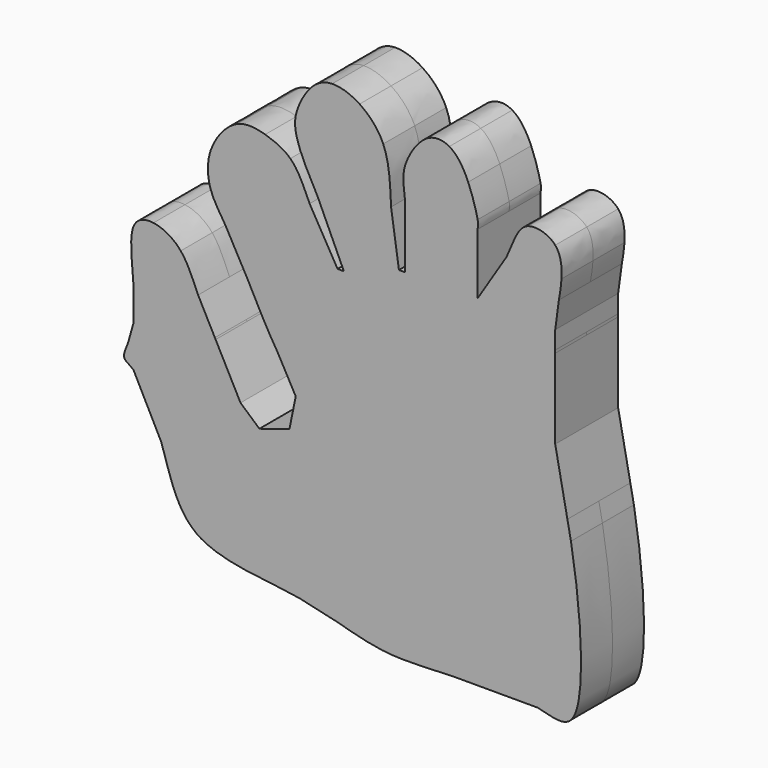
from build123d import *

# Parameters (mm, degrees)
F1_DEPTH = 12.5


with BuildPart() as f1:
    # F0 (on Front) → F1 (new body, symmetric)
    with BuildSketch(Plane.XZ):
        Polygon((-5.1935133524, -48.3025573194), (-6.5935280512, -64.8396732739), (15.7875418663, -64.8396732739), (15.7875418663, -48.3025573194), align=None)
        with BuildLine():
            add(Edge.make_bspline(
                [(-6.5935280512, -64.8396732739), (-11.4050365055, -64.2186312655), (-16.1045608147, -62.8679445056), (-21.1729632336, -61.5103819503)],
                knots=[0.8510220644, 0.8510220644, 0.8510220644, 0.8510220644, 0.8655909501, 0.8655909501, 0.8655909501, 0.8655909501], degree=3))
            Line((-6.5935280512, -64.8396732739), (-21.1729632336, -61.5103819503))
        make_face()
        with BuildLine():
            Line((-21.1729632336, -61.5103819503), (-6.5935280512, -64.8396732739))
            Line((-6.5935280512, -64.8396732739), (-5.1935133524, -48.3025573194))
            Line((-5.1935133524, -48.3025573194), (-26.9469034553, -40.9064049648))
            Line((-26.9469034553, -40.9064049648), (-32.8958564252, -58.8333971356))
            add(Edge.make_bspline(
                [(-21.1729632336, -61.5103819503), (-24.828562124, -60.5312363023), (-28.676053416, -59.5485138281), (-32.8958564252, -58.8333971356)],
                knots=[0.8655909501, 0.8655909501, 0.8655909501, 0.8655909501, 0.8760987981, 0.8760987981, 0.8760987981, 0.8760987981], degree=3))
        make_face()
        with BuildLine():
            Line((15.7875418663, -64.8396732739), (-6.5935280512, -64.8396732739))
            add(Edge.make_bspline(
                [(15.7875418663, -64.8396732739), (8.7679124805, -64.9936300958), (0.9495776428, -65.81329424), (-6.5935280512, -64.8396732739)],
                knots=[0.8281821076, 0.8281821076, 0.8281821076, 0.8281821076, 0.8510220644, 0.8510220644, 0.8510220644, 0.8510220644], degree=3))
        make_face()
        with BuildLine():
            add(Edge.make_bspline(
                [(22.2482619205, -64.8396732739), (20.1812591882, -64.8091614413), (18.0249726281, -64.7906012061), (15.7875418663, -64.8396732739)],
                knots=[0.8209021191, 0.8209021191, 0.8209021191, 0.8209021191, 0.8281821076, 0.8281821076, 0.8281821076, 0.8281821076], degree=3))
            Line((15.7875418663, -64.8396732739), (22.2482619205, -64.8396732739))
        make_face()
        with BuildLine():
            Line((15.7875418663, -48.3025573194), (15.7875418663, -64.8396732739))
            add(Edge.make_bspline(
                [(22.2482619205, -64.8396732739), (20.1812591882, -64.8091614413), (18.0249726281, -64.7906012061), (15.7875418663, -64.8396732739)],
                knots=[0.8209021191, 0.8209021191, 0.8209021191, 0.8209021191, 0.8281821076, 0.8281821076, 0.8281821076, 0.8281821076], degree=3))
            Line((22.2482619205, -64.8396732739), (31.6822826862, -64.8396732739))
            Line((31.6822826862, -64.8396732739), (31.6822826862, -48.3025573194))
            Line((31.6822826862, -48.3025573194), (15.7875418663, -48.3025573194))
        make_face()
        with BuildLine():
            Line((-32.8958564252, -58.8333971356), (-21.1729632336, -61.5103819503))
            add(Edge.make_bspline(
                [(-21.1729632336, -61.5103819503), (-24.828562124, -60.5312363023), (-28.676053416, -59.5485138281), (-32.8958564252, -58.8333971356)],
                knots=[0.8655909501, 0.8655909501, 0.8655909501, 0.8655909501, 0.8760987981, 0.8760987981, 0.8760987981, 0.8760987981], degree=3))
        make_face()
        with BuildLine():
            Line((31.6822826862, -64.8396732739), (22.2482619205, -64.8396732739))
            add(Edge.make_bspline(
                [(31.6822826862, -64.8396732739), (28.8030091837, -64.9722917368), (25.6462814157, -64.8898327634), (22.2482619205, -64.8396732739)],
                knots=[0.8089342862, 0.8089342862, 0.8089342862, 0.8089342862, 0.8209021191, 0.8209021191, 0.8209021191, 0.8209021191], degree=3))
        make_face()
        with BuildLine():
            add(Edge.make_bspline(
                [(-32.8958564252, -58.8333971356), (-44.1164137072, -56.9318847202), (-57.9693668764, -56.9224544676), (-65.5489493573, -51.3768902389)],
                knots=[0.8760987981, 0.8760987981, 0.8760987981, 0.8760987981, 0.9040394178, 0.9040394178, 0.9040394178, 0.9040394178], degree=3))
            Line((-32.8958564252, -58.8333971356), (-65.5489493573, -51.3768902389))
        make_face()
        Polygon((-65.5489493573, -51.3768902389), (-32.8958564252, -58.8333971356), (-26.9469034553, -40.9064049648), (-44.9303537607, -34.7920320928), align=None)
        with BuildLine():
            Line((-44.9303537607, -34.7920320928), (-26.9469034553, -40.9064049648))
            Line((-26.9469034553, -40.9064049648), (-22.3575511996, -14.3079243898))
            Line((-22.3575511996, -14.3079243898), (-36.0247479849, -12.5796046703))
            add(Edge.make_bspline(
                [(-45.5641399991, -15.5796046703), (-42.6125678635, -16.1868752323), (-38.3733848259, -15.0952570458), (-36.0247479849, -12.5796046703)],
                knots=[0.0950415408, 0.0950415408, 0.0950415408, 0.0950415408, 0.1103085811, 0.1103085811, 0.1103085811, 0.1103085811], degree=3))
            Line((-45.5641399991, -15.5796046703), (-44.9303537607, -34.7920320928))
        make_face()
        with BuildLine():
            add(Edge.make_bspline(
                [(42.8085923195, -64.8396732739), (38.9285973622, -64.0933455842), (35.5566235974, -64.6612223085), (31.6822826862, -64.8396732739)],
                knots=[0.79283041, 0.79283041, 0.79283041, 0.79283041, 0.8089342862, 0.8089342862, 0.8089342862, 0.8089342862], degree=3))
            Line((31.6822826862, -64.8396732739), (42.8085923195, -64.8396732739))
        make_face()
        with BuildLine():
            Line((31.6822826862, -48.3025573194), (31.6822826862, -64.8396732739))
            add(Edge.make_bspline(
                [(42.8085923195, -64.8396732739), (38.9285973622, -64.0933455842), (35.5566235974, -64.6612223085), (31.6822826862, -64.8396732739)],
                knots=[0.79283041, 0.79283041, 0.79283041, 0.79283041, 0.8089342862, 0.8089342862, 0.8089342862, 0.8089342862], degree=3))
            Line((42.8085923195, -64.8396732739), (42.8085923195, -48.3025573194))
            Line((42.8085923195, -48.3025573194), (31.6822826862, -48.3025573194))
        make_face()
        with BuildLine():
            add(Edge.make_bspline(
                [(-65.5489493573, -51.3768902389), (-72.0523895161, -46.6186802452), (-73.9373750548, -37.7847691955), (-76.7571373777, -29.4134169658)],
                knots=[0.9040394178, 0.9040394178, 0.9040394178, 0.9040394178, 0.9280130534, 0.9280130534, 0.9280130534, 0.9280130534], degree=3))
            Line((-65.5489493573, -51.3768902389), (-76.7571373777, -29.4134169658))
        make_face()
        Polygon((-76.7571373777, -29.4134169658), (-65.5489493573, -51.3768902389), (-44.9303537607, -34.7920320928), (-62.4145641923, -20.1688762754), align=None)
        with BuildLine():
            Line((-62.4145641923, -20.1688762754), (-44.9303537607, -34.7920320928))
            Line((-44.9303537607, -34.7920320928), (-45.5641399991, -15.5796046703))
            add(Edge.make_bspline(
                [(-51.5641399991, -10.2881020482), (-49.813984026, -13.1341750659), (-48.2041063734, -15.0364453674), (-45.5641399991, -15.5796046703)],
                knots=[0.0813862847, 0.0813862847, 0.0813862847, 0.0813862847, 0.0950415408, 0.0950415408, 0.0950415408, 0.0950415408], degree=3))
            Line((-51.5641399991, -10.2881020482), (-62.4145641923, -20.1688762754))
        make_face()
        with BuildLine():
            Line((-36.0247479849, -12.5796046703), (-22.3575511996, -14.3079243898))
            Line((-22.3575511996, -14.3079243898), (-21.612960114, 9.389372386))
            Line((-21.612960114, 9.389372386), (-39.8195015407, 7.7478907339))
            add(Edge.make_bspline(
                [(-34.0247479849, -2.7816456992), (-34.9091637398, 0.8828703507), (-37.3137325461, 3.8297871731), (-39.8195015407, 7.7478907339)],
                knots=[0.1255756215, 0.1255756215, 0.1255756215, 0.1255756215, 0.1423128857, 0.1423128857, 0.1423128857, 0.1423128857], degree=3))
            add(Edge.make_bspline(
                [(-36.0247479849, -12.5796046703), (-33.6761111439, -10.0639522948), (-33.2180204995, -6.1242657302), (-34.0247479849, -2.7816456992)],
                knots=[0.1103085811, 0.1103085811, 0.1103085811, 0.1103085811, 0.1255756215, 0.1255756215, 0.1255756215, 0.1255756215], degree=3))
        make_face()
        with BuildLine():
            Line((-21.612960114, 9.389372386), (-13.4903537243, 9.389372386))
            Line((-13.4903537243, 9.389372386), (-18.7393362841, 37.1932550406))
            add(Edge.make_bspline(
                [(-20.7393362841, 37.1932550406), (-19.8140247187, 36.5347507636), (-18.9764805354, 36.5181059132), (-18.7393362841, 37.1932550406)],
                knots=[0.2968141887, 0.2968141887, 0.2968141887, 0.2968141887, 0.3036418167, 0.3036418167, 0.3036418167, 0.3036418167], degree=3))
            Line((-20.7393362841, 37.1932550406), (-21.612960114, 9.389372386))
        make_face()
        Polygon((-18.7393362841, 37.1932550406), (-13.4903537243, 9.389372386), (4.9209466925, 10.6750283704), (-0.0967886949, 37.1932550406), (-9.369668142, 37.1932550406), align=None)
        Polygon((42.8085923195, -48.3025573194), (42.8085923195, -64.8396732739), (53.4064719488, -64.8396732739), (53.4064719488, -14.8396732739), (37.5633239745, -15.0825604797), align=None)
        with BuildLine():
            Line((53.4064719488, -64.8396732739), (42.8085923195, -64.8396732739))
            add(Edge.make_bspline(
                [(53.4064719488, -64.8396732739), (50.8659586136, -67.5482395357), (46.5953287823, -65.568062436), (42.8085923195, -64.8396732739)],
                knots=[0.777113602, 0.777113602, 0.777113602, 0.777113602, 0.79283041, 0.79283041, 0.79283041, 0.79283041], degree=3))
        make_face()
        with BuildLine():
            add(Edge.make_bspline(
                [(-76.7571373777, -29.4134169658), (-79.2545137314, -21.999168986), (-82.4851381101, -14.9477566554), (-85.5489493573, -12.1850543543)],
                knots=[0.9280130534, 0.9280130534, 0.9280130534, 0.9280130534, 0.9492457616, 0.9492457616, 0.9492457616, 0.9492457616], degree=3))
            Line((-76.7571373777, -29.4134169658), (-62.4145641923, -20.1688762754))
            Line((-62.4145641923, -20.1688762754), (-70.9977224469, -3.6383499391))
            Line((-70.9977224469, -3.6383499391), (-85.5489493573, -12.1850543543))
        make_face()
        with BuildLine():
            Line((-85.5489493573, -12.1850543543), (-76.7571373777, -29.4134169658))
            add(Edge.make_bspline(
                [(-76.7571373777, -29.4134169658), (-79.2545137314, -21.999168986), (-82.4851381101, -14.9477566554), (-85.5489493573, -12.1850543543)],
                knots=[0.9280130534, 0.9280130534, 0.9280130534, 0.9280130534, 0.9492457616, 0.9492457616, 0.9492457616, 0.9492457616], degree=3))
        make_face()
        with BuildLine():
            add(Edge.make_bspline(
                [(-51.5641399991, -10.2881020482), (-49.813984026, -13.1341750659), (-48.2041063734, -15.0364453674), (-45.5641399991, -15.5796046703)],
                knots=[0.0813862847, 0.0813862847, 0.0813862847, 0.0813862847, 0.0950415408, 0.0950415408, 0.0950415408, 0.0950415408], degree=3))
            Line((-45.5641399991, -15.5796046703), (-51.5641399991, -10.2881020482))
        make_face()
        with BuildLine():
            Line((-36.0247479849, -12.5796046703), (-45.5641399991, -15.5796046703))
            add(Edge.make_bspline(
                [(-45.5641399991, -15.5796046703), (-42.6125678635, -16.1868752323), (-38.3733848259, -15.0952570458), (-36.0247479849, -12.5796046703)],
                knots=[0.0950415408, 0.0950415408, 0.0950415408, 0.0950415408, 0.1103085811, 0.1103085811, 0.1103085811, 0.1103085811], degree=3))
        make_face()
        Polygon((-70.9977224469, -3.6383499391), (-62.4145641923, -20.1688762754), (-51.5641399991, -10.2881020482), align=None)
        with BuildLine():
            Line((-34.0247479849, -2.7816456992), (-36.0247479849, -12.5796046703))
            add(Edge.make_bspline(
                [(-36.0247479849, -12.5796046703), (-33.6761111439, -10.0639522948), (-33.2180204995, -6.1242657302), (-34.0247479849, -2.7816456992)],
                knots=[0.1103085811, 0.1103085811, 0.1103085811, 0.1103085811, 0.1255756215, 0.1255756215, 0.1255756215, 0.1255756215], degree=3))
        make_face()
        Polygon((-39.8195015407, 7.7478907339), (-21.612960114, 9.389372386), (-20.7393362841, 37.1932550406), (-49.3983829512, 25.1534938937), align=None)
        with BuildLine():
            add(Edge.make_bspline(
                [(-20.7393362841, 37.1932550406), (-19.8140247187, 36.5347507636), (-18.9764805354, 36.5181059132), (-18.7393362841, 37.1932550406)],
                knots=[0.2968141887, 0.2968141887, 0.2968141887, 0.2968141887, 0.3036418167, 0.3036418167, 0.3036418167, 0.3036418167], degree=3))
            Line((-18.7393362841, 37.1932550406), (-20.7393362841, 37.1932550406))
        make_face()
        with BuildLine():
            add(Edge.make_bspline(
                [(-18.7393362841, 37.1932550406), (-17.9899796566, 39.3266716016), (-23.2356692695, 48.3677120049), (-27.0602430678, 55.3473303678)],
                knots=[0.3036418167, 0.3036418167, 0.3036418167, 0.3036418167, 0.3252165683, 0.3252165683, 0.3252165683, 0.3252165683], degree=3))
            Line((-18.7393362841, 37.1932550406), (-9.369668142, 37.1932550406))
            Line((-9.369668142, 37.1932550406), (-15.5560321957, 58.7479010111))
            Line((-15.5560321957, 58.7479010111), (-27.0602430678, 55.3473303678))
        make_face()
        with BuildLine():
            Line((-27.0602430678, 55.3473303678), (-18.7393362841, 37.1932550406))
            add(Edge.make_bspline(
                [(-18.7393362841, 37.1932550406), (-17.9899796566, 39.3266716016), (-23.2356692695, 48.3677120049), (-27.0602430678, 55.3473303678)],
                knots=[0.3036418167, 0.3036418167, 0.3036418167, 0.3036418167, 0.3252165683, 0.3252165683, 0.3252165683, 0.3252165683], degree=3))
        make_face()
        with BuildLine():
            Line((53.4064719488, -14.8396732739), (53.4064719488, -64.8396732739))
            add(Edge.make_bspline(
                [(53.4064719488, -14.8396732739), (56.2803009226, -30.9520973766), (58.9246662683, -58.9564548107), (53.4064719488, -64.8396732739)],
                knots=[0.7429754619, 0.7429754619, 0.7429754619, 0.7429754619, 0.777113602, 0.777113602, 0.777113602, 0.777113602], degree=3))
        make_face()
        with BuildLine():
            Line((31.4882327851, 10.6750283704), (37.5633239745, -15.0825604797))
            Line((37.5633239745, -15.0825604797), (53.4064719488, -14.8396732739))
            Line((53.4064719488, -14.8396732739), (52.2753390922, -9.0675698026))
            add(Edge.make_bspline(
                [(48.4064719488, 10.6750283704), (49.0088313806, 3.7503301896), (50.5862752832, -1.1475419331), (52.2753390922, -9.0675698026)],
                knots=[0.7183580989, 0.7183580989, 0.7183580989, 0.7183580989, 0.7385059612, 0.7385059612, 0.7385059612, 0.7385059612], degree=3))
            Line((48.4064719488, 10.6750283704), (31.4882327851, 10.6750283704))
        make_face()
        with BuildLine():
            Line((-9.369668142, 37.1932550406), (-0.0967886949, 37.1932550406))
            Line((-0.0967886949, 37.1932550406), (-1.2393362841, 43.2315040936))
            add(Edge.make_bspline(
                [(-3.7393362841, 60.0466758144), (-3.4402741137, 53.2980468561), (-3.0991006227, 45.368869769), (-1.2393362841, 43.2315040936)],
                knots=[0.4361504812, 0.4361504812, 0.4361504812, 0.4361504812, 0.4560562665, 0.4560562665, 0.4560562665, 0.4560562665], degree=3))
            Line((-3.7393362841, 60.0466758144), (-4.0518213236, 62.1484716544))
            Line((-4.0518213236, 62.1484716544), (-15.5560321957, 58.7479010111))
            Line((-15.5560321957, 58.7479010111), (-9.369668142, 37.1932550406))
        make_face()
        with BuildLine():
            Line((-1.2393362841, 43.2315040936), (-0.0967886949, 37.1932550406))
            Line((-0.0967886949, 37.1932550406), (0, 37.1932550406))
            Line((0, 37.1932550406), (2.762519131, 38.3189834054))
            Line((2.762519131, 38.3189834054), (0.7606637159, 43.2315040936))
            add(Edge.make_bspline(
                [(-1.2393362841, 43.2315040936), (-0.6014423785, 42.4983937151), (0.2151092738, 42.4466729145), (0.7606637159, 43.2315040936)],
                knots=[0.4560562665, 0.4560562665, 0.4560562665, 0.4560562665, 0.4628838946, 0.4628838946, 0.4628838946, 0.4628838946], degree=3))
        make_face()
        with BuildLine():
            add(Edge.make_bspline(
                [(-85.5489493573, -12.1850543543), (-85.5953286036, -12.1432332237), (-85.6416696243, -12.1023948589), (-85.6879327177, -12.0624825517)],
                knots=[0.9492457616, 0.9492457616, 0.9492457616, 0.9492457616, 0.9495671772, 0.9495671772, 0.9495671772, 0.9495671772], degree=3))
            Line((-85.5489493573, -12.1850543543), (-70.9977224469, -3.6383499391))
            Line((-70.9977224469, -3.6383499391), (-74.5548907039, 2.4179215722))
            Line((-74.5548907039, 2.4179215722), (-79.4219300151, -2.2078235633))
            Line((-79.4219300151, -2.2078235633), (-88.5489493573, -9.5393030433))
            Line((-88.5489493573, -9.5393030433), (-85.6879327177, -12.0624825517))
        make_face()
        with BuildLine():
            Line((-85.6879327177, -12.0624825517), (-85.5489493573, -12.1850543543))
            add(Edge.make_bspline(
                [(-85.5489493573, -12.1850543543), (-85.5953286036, -12.1432332237), (-85.6416696243, -12.1023948589), (-85.6879327177, -12.0624825517)],
                knots=[0.9492457616, 0.9492457616, 0.9492457616, 0.9492457616, 0.9495671772, 0.9495671772, 0.9495671772, 0.9495671772], degree=3))
        make_face()
        with BuildLine():
            add(Edge.make_bspline(
                [(-59.4760133754, 4.8409839914), (-56.9769911398, 0.04154118), (-54.1208799224, -6.1303763251), (-51.5641399991, -10.2881020482)],
                knots=[0.0614378122, 0.0614378122, 0.0614378122, 0.0614378122, 0.0813862847, 0.0813862847, 0.0813862847, 0.0813862847], degree=3))
            Line((-51.5641399991, -10.2881020482), (-59.4760133754, 4.8409839914))
        make_face()
        with BuildLine():
            Line((-70.9977224469, -3.6383499391), (-51.5641399991, -10.2881020482))
            add(Edge.make_bspline(
                [(-59.4760133754, 4.8409839914), (-56.9769911398, 0.04154118), (-54.1208799224, -6.1303763251), (-51.5641399991, -10.2881020482)],
                knots=[0.0614378122, 0.0614378122, 0.0614378122, 0.0614378122, 0.0813862847, 0.0813862847, 0.0813862847, 0.0813862847], degree=3))
            Line((-59.4760133754, 4.8409839914), (-70.9977224469, -3.6383499391))
        make_face()
        with BuildLine():
            Line((-74.5548907039, 2.4179215722), (-70.9977224469, -3.6383499391))
            Line((-70.9977224469, -3.6383499391), (-59.4760133754, 4.8409839914))
            Line((-59.4760133754, 4.8409839914), (-59.7096531844, 5.2877500865))
            add(Edge.make_bspline(
                [(-65.0409396346, 15.4822372287), (-63.4771812469, 12.0586552313), (-61.7092651749, 9.095232955), (-59.7096531844, 5.2877500865)],
                knots=[0.0447076678, 0.0447076678, 0.0447076678, 0.0447076678, 0.0608133457, 0.0608133457, 0.0608133457, 0.0608133457], degree=3))
            Line((-65.0409396346, 15.4822372287), (-74.5548907039, 2.4179215722))
        make_face()
        with BuildLine():
            Line((-39.8195015407, 7.7478907339), (-34.0247479849, -2.7816456992))
            add(Edge.make_bspline(
                [(-34.0247479849, -2.7816456992), (-34.9091637398, 0.8828703507), (-37.3137325461, 3.8297871731), (-39.8195015407, 7.7478907339)],
                knots=[0.1255756215, 0.1255756215, 0.1255756215, 0.1255756215, 0.1423128857, 0.1423128857, 0.1423128857, 0.1423128857], degree=3))
        make_face()
        with BuildLine():
            add(Edge.make_bspline(
                [(-29.6119012861, 52.5609884176), (-27.0304816566, 46.811148298), (-23.4955480688, 39.1547319271), (-20.7393362841, 37.1932550406)],
                knots=[0.2764768347, 0.2764768347, 0.2764768347, 0.2764768347, 0.2968141887, 0.2968141887, 0.2968141887, 0.2968141887], degree=3))
            Line((-20.7393362841, 37.1932550406), (-29.6119012861, 52.5609884176))
        make_face()
        with BuildLine():
            Line((-49.3983829512, 25.1534938937), (-20.7393362841, 37.1932550406))
            add(Edge.make_bspline(
                [(-29.6119012861, 52.5609884176), (-27.0304816566, 46.811148298), (-23.4955480688, 39.1547319271), (-20.7393362841, 37.1932550406)],
                knots=[0.2764768347, 0.2764768347, 0.2764768347, 0.2764768347, 0.2968141887, 0.2968141887, 0.2968141887, 0.2968141887], degree=3))
            Line((-29.6119012861, 52.5609884176), (-42.9938296376, 45.1964688692))
            Line((-42.9938296376, 45.1964688692), (-56.375757989, 37.8319493208))
            add(Edge.make_bspline(
                [(-49.3983829512, 25.1534938937), (-51.9317029545, 30.039774292), (-54.1585803689, 34.2575773545), (-56.375757989, 37.8319493208)],
                knots=[0.1638319996, 0.1638319996, 0.1638319996, 0.1638319996, 0.1821979337, 0.1821979337, 0.1821979337, 0.1821979337], degree=3))
        make_face()
        with BuildLine():
            add(Edge.make_bspline(
                [(-39.8195015407, 7.7478907339), (-43.0411707331, 12.7853996032), (-46.4301265225, 19.4283059247), (-49.3983829512, 25.1534938937)],
                knots=[0.1423128857, 0.1423128857, 0.1423128857, 0.1423128857, 0.1638319996, 0.1638319996, 0.1638319996, 0.1638319996], degree=3))
            Line((-39.8195015407, 7.7478907339), (-49.3983829512, 25.1534938937))
        make_face()
        with BuildLine():
            add(Edge.make_bspline(
                [(-27.0602430678, 55.3473303678), (-30.486788302, 61.6005704148), (-32.7726207217, 66.1991314318), (-33.7393362841, 69.9193913845)],
                knots=[0.3252165683, 0.3252165683, 0.3252165683, 0.3252165683, 0.3445460063, 0.3445460063, 0.3445460063, 0.3445460063], degree=3))
            Line((-27.0602430678, 55.3473303678), (-33.7393362841, 69.9193913845))
        make_face()
        Polygon((-33.7393362841, 69.9193913845), (-27.0602430678, 55.3473303678), (-15.5560321957, 58.7479010111), (-19.3691610698, 75.1394322894), align=None)
        with BuildLine():
            Line((52.2753390922, -9.0675698026), (53.4064719488, -14.8396732739))
            add(Edge.make_bspline(
                [(52.2753390922, -9.0675698026), (52.6500325294, -10.8245090307), (53.0302188668, -12.7301708357), (53.4064719488, -14.8396732739)],
                knots=[0.7385059612, 0.7385059612, 0.7385059612, 0.7385059612, 0.7429754619, 0.7429754619, 0.7429754619, 0.7429754619], degree=3))
        make_face()
        with BuildLine():
            Line((24.9682301307, 38.3189834054), (31.4882327851, 10.6750283704))
            Line((31.4882327851, 10.6750283704), (48.4064719488, 10.6750283704))
            add(Edge.make_bspline(
                [(48.4064719488, 36.0984914005), (48.3743215869, 30.3667524254), (47.6786939052, 19.0415335309), (48.4064719488, 10.6750283704)],
                knots=[0.6940152049, 0.6940152049, 0.6940152049, 0.6940152049, 0.7183580989, 0.7183580989, 0.7183580989, 0.7183580989], degree=3))
            Line((48.4064719488, 36.0984914005), (24.9682301307, 38.3189834054))
        make_face()
        with BuildLine():
            Line((0.7606637159, 43.2315040936), (2.762519131, 38.3189834054))
            Line((2.762519131, 38.3189834054), (24.9682301307, 38.3189834054))
            Line((24.9682301307, 38.3189834054), (23.7606637159, 43.4389064243))
            add(Edge.make_bspline(
                [(23.7606637159, 62.7316907048), (23.3344612488, 58.5651346519), (21.9396655071, 44.9812673042), (23.7606637159, 43.4389064243)],
                knots=[0.5678223686, 0.5678223686, 0.5678223686, 0.5678223686, 0.5890280538, 0.5890280538, 0.5890280538, 0.5890280538], degree=3))
            Line((23.7606637159, 62.7316907048), (0.7606637159, 62.7316907048))
            add(Edge.make_bspline(
                [(0.7606637159, 43.2315040936), (2.4641650665, 45.6821503912), (1.5254183319, 56.2892565472), (0.7606637159, 62.7316907048)],
                knots=[0.4628838946, 0.4628838946, 0.4628838946, 0.4628838946, 0.4842032583, 0.4842032583, 0.4842032583, 0.4842032583], degree=3))
        make_face()
        with BuildLine():
            add(Edge.make_bspline(
                [(-3.7393362841, 60.0466758144), (-3.4402741137, 53.2980468561), (-3.0991006227, 45.368869769), (-1.2393362841, 43.2315040936)],
                knots=[0.4361504812, 0.4361504812, 0.4361504812, 0.4361504812, 0.4560562665, 0.4560562665, 0.4560562665, 0.4560562665], degree=3))
            Line((-1.2393362841, 43.2315040936), (-3.7393362841, 60.0466758144))
        make_face()
        with BuildLine():
            Line((0.7606637159, 43.2315040936), (-1.2393362841, 43.2315040936))
            add(Edge.make_bspline(
                [(-1.2393362841, 43.2315040936), (-0.6014423785, 42.4983937151), (0.2151092738, 42.4466729145), (0.7606637159, 43.2315040936)],
                knots=[0.4560562665, 0.4560562665, 0.4560562665, 0.4560562665, 0.4628838946, 0.4628838946, 0.4628838946, 0.4628838946], degree=3))
        make_face()
        with BuildLine():
            add(Edge.make_bspline(
                [(-85.6879327177, -12.0624825517), (-87.0314700715, -10.9033798697), (-88.3092839747, -10.5253080097), (-88.5489493573, -9.5393030433)],
                knots=[0.9495671772, 0.9495671772, 0.9495671772, 0.9495671772, 0.9589014857, 0.9589014857, 0.9589014857, 0.9589014857], degree=3))
            Line((-85.6879327177, -12.0624825517), (-88.5489493573, -9.5393030433))
        make_face()
        with BuildLine():
            Line((-59.7096531844, 5.2877500865), (-59.4760133754, 4.8409839914))
            add(Edge.make_bspline(
                [(-59.7096531844, 5.2877500865), (-59.6321221033, 5.1401223144), (-59.554242702, 4.9912256235), (-59.4760133754, 4.8409839914)],
                knots=[0.0608133457, 0.0608133457, 0.0608133457, 0.0608133457, 0.0614378122, 0.0614378122, 0.0614378122, 0.0614378122], degree=3))
        make_face()
        with BuildLine():
            Line((-79.4219300151, -2.2078235633), (-74.5548907039, 2.4179215722))
            Line((-74.5548907039, 2.4179215722), (-78.1120589608, 8.4741930834))
            Line((-78.1120589608, 8.4741930834), (-85.5489493573, 1.043702201))
            add(Edge.make_bspline(
                [(-87.3303077262, -5.2403394524), (-86.6604179824, -3.5494841986), (-85.9039158253, -1.4594887051), (-85.5489493573, 1.043702201)],
                knots=[0.9675066157, 0.9675066157, 0.9675066157, 0.9675066157, 0.9749136928, 0.9749136928, 0.9749136928, 0.9749136928], degree=3))
            Line((-87.3303077262, -5.2403394524), (-88.5489493573, -9.5393030433))
            Line((-88.5489493573, -9.5393030433), (-79.4219300151, -2.2078235633))
        make_face()
        Polygon((-78.1120589608, 8.4741930834), (-74.5548907039, 2.4179215722), (-65.0409396346, 15.4822372287), (-70.5641399991, 26.043702201), align=None)
        Polygon((-42.9938296376, 45.1964688692), (-29.6119012861, 52.5609884176), (-35.7393362841, 63.1740171541), (-48.5923051484, 55.3693522013), align=None)
        with BuildLine():
            Line((-35.7393362841, 63.1740171541), (-29.6119012861, 52.5609884176))
            add(Edge.make_bspline(
                [(-35.7393362841, 63.1740171541), (-33.2438552143, 60.8008344869), (-31.7571288557, 57.3392567022), (-29.6119012861, 52.5609884176)],
                knots=[0.259575959, 0.259575959, 0.259575959, 0.259575959, 0.2764768347, 0.2764768347, 0.2764768347, 0.2764768347], degree=3))
        make_face()
        with BuildLine():
            Line((-56.375757989, 37.8319493208), (-49.3983829512, 25.1534938937))
            add(Edge.make_bspline(
                [(-49.3983829512, 25.1534938937), (-51.9317029545, 30.039774292), (-54.1585803689, 34.2575773545), (-56.375757989, 37.8319493208)],
                knots=[0.1638319996, 0.1638319996, 0.1638319996, 0.1638319996, 0.1821979337, 0.1821979337, 0.1821979337, 0.1821979337], degree=3))
        make_face()
        with BuildLine():
            add(Edge.make_bspline(
                [(-33.7393362841, 69.9193913845), (-34.3781634216, 72.3778218773), (-34.4409506623, 74.4527105697), (-33.7393362841, 76.9193913845)],
                knots=[0.3445460063, 0.3445460063, 0.3445460063, 0.3445460063, 0.3573193288, 0.3573193288, 0.3573193288, 0.3573193288], degree=3))
            Line((-33.7393362841, 69.9193913845), (-33.7393362841, 76.9193913845))
        make_face()
        with BuildLine():
            Line((-33.7393362841, 76.9193913845), (-33.7393362841, 69.9193913845))
            Line((-33.7393362841, 69.9193913845), (-19.3691610698, 75.1394322894))
            Line((-19.3691610698, 75.1394322894), (-22.4550925195, 88.4049534798))
            add(Edge.make_bspline(
                [(-28.7393362841, 85.5796454223), (-26.887603161, 87.4091638376), (-24.8290095565, 88.3402801807), (-22.4550925195, 88.4049534798)],
                knots=[0.3725863692, 0.3725863692, 0.3725863692, 0.3725863692, 0.3852590649, 0.3852590649, 0.3852590649, 0.3852590649], degree=3))
            Line((-28.7393362841, 85.5796454223), (-33.7393362841, 76.9193913845))
        make_face()
        Polygon((-19.3691610698, 75.1394322894), (-15.5560321957, 58.7479010111), (-4.0518213236, 62.1484716544), (-6.2393362841, 76.8618475352), align=None)
        with BuildLine():
            add(Edge.make_bspline(
                [(48.4064719488, 10.6750283704), (49.0088313806, 3.7503301896), (50.5862752832, -1.1475419331), (52.2753390922, -9.0675698026)],
                knots=[0.7183580989, 0.7183580989, 0.7183580989, 0.7183580989, 0.7385059612, 0.7385059612, 0.7385059612, 0.7385059612], degree=3))
            Line((52.2753390922, -9.0675698026), (48.4064719488, 10.6750283704))
        make_face()
        with BuildLine():
            Line((23.7606637159, 43.4389064243), (24.9682301307, 38.3189834054))
            Line((24.9682301307, 38.3189834054), (48.4064719488, 36.0984914005))
            Line((48.4064719488, 36.0984914005), (48.4064719488, 36.9738707341))
            add(Edge.make_bspline(
                [(48.4064719488, 42.6750283704), (48.2821773465, 40.7129096786), (48.3933827177, 39.3309672652), (48.4064719488, 36.9738707341)],
                knots=[0.6816342687, 0.6816342687, 0.6816342687, 0.6816342687, 0.6927113918, 0.6927113918, 0.6927113918, 0.6927113918], degree=3))
            add(Edge.make_bspline(
                [(49.5759529229, 51.3678206502), (49.1197227638, 48.7070407791), (48.5669099908, 45.2077085942), (48.4064719488, 42.6750283704)],
                knots=[0.6673360456, 0.6673360456, 0.6673360456, 0.6673360456, 0.6816342687, 0.6816342687, 0.6816342687, 0.6816342687], degree=3))
            Line((49.5759529229, 51.3678206502), (32.9548612482, 58.0215674631))
            add(Edge.make_bspline(
                [(23.7606637159, 43.4389064243), (25.4820154268, 41.9809447818), (30.0768486528, 51.2827043103), (32.9548612482, 58.0215674631)],
                knots=[0.5890280538, 0.5890280538, 0.5890280538, 0.5890280538, 0.6090733466, 0.6090733466, 0.6090733466, 0.6090733466], degree=3))
        make_face()
        with BuildLine():
            add(Edge.make_bspline(
                [(48.4064719488, 36.0984914005), (48.3743215869, 30.3667524254), (47.6786939052, 19.0415335309), (48.4064719488, 10.6750283704)],
                knots=[0.6940152049, 0.6940152049, 0.6940152049, 0.6940152049, 0.7183580989, 0.7183580989, 0.7183580989, 0.7183580989], degree=3))
            Line((48.4064719488, 10.6750283704), (48.4064719488, 36.0984914005))
        make_face()
        with BuildLine():
            Line((0.7606637159, 62.7316907048), (0.7606637159, 43.2315040936))
            add(Edge.make_bspline(
                [(0.7606637159, 43.2315040936), (2.4641650665, 45.6821503912), (1.5254183319, 56.2892565472), (0.7606637159, 62.7316907048)],
                knots=[0.4628838946, 0.4628838946, 0.4628838946, 0.4628838946, 0.4842032583, 0.4842032583, 0.4842032583, 0.4842032583], degree=3))
        make_face()
        with BuildLine():
            Line((-4.0518213236, 62.1484716544), (-3.7393362841, 60.0466758144))
            add(Edge.make_bspline(
                [(-6.2393362841, 76.8618475352), (-4.2953493043, 72.3633856024), (-4.0383984545, 66.7953047728), (-3.7393362841, 60.0466758144)],
                knots=[0.4162446959, 0.4162446959, 0.4162446959, 0.4162446959, 0.4361504812, 0.4361504812, 0.4361504812, 0.4361504812], degree=3))
            Line((-6.2393362841, 76.8618475352), (-4.0518213236, 62.1484716544))
        make_face()
        with BuildLine():
            add(Edge.make_bspline(
                [(-88.5489493573, -9.5393030433), (-88.7698925336, -8.6303229196), (-88.1085483485, -7.2046809835), (-87.3303077262, -5.2403394524)],
                knots=[0.9589014857, 0.9589014857, 0.9589014857, 0.9589014857, 0.9675066157, 0.9675066157, 0.9675066157, 0.9675066157], degree=3))
            Line((-88.5489493573, -9.5393030433), (-87.3303077262, -5.2403394524))
        make_face()
        with BuildLine():
            add(Edge.make_bspline(
                [(-65.0409396346, 15.4822372287), (-63.4771812469, 12.0586552313), (-61.7092651749, 9.095232955), (-59.7096531844, 5.2877500865)],
                knots=[0.0447076678, 0.0447076678, 0.0447076678, 0.0447076678, 0.0608133457, 0.0608133457, 0.0608133457, 0.0608133457], degree=3))
            Line((-59.7096531844, 5.2877500865), (-65.0409396346, 15.4822372287))
        make_face()
        Polygon((-80.5345624685, 22.5879661739), (-78.1120589608, 8.4741930834), (-70.5641399991, 26.043702201), (-79.2243940369, 31.043702201), align=None)
        with BuildLine():
            Line((-85.5489493573, 1.043702201), (-78.1120589608, 8.4741930834))
            Line((-78.1120589608, 8.4741930834), (-80.5345624685, 22.5879661739))
            Line((-80.5345624685, 22.5879661739), (-85.5489493573, 28.043702201))
            Line((-85.5489493573, 28.043702201), (-85.5489493573, 11.2435884458))
            add(Edge.make_bspline(
                [(-85.5489493573, 1.043702201), (-85.124312534, 4.0382020492), (-85.2743010831, 7.6240131411), (-85.5489493573, 11.2435884458)],
                knots=[0.9749136928, 0.9749136928, 0.9749136928, 0.9749136928, 0.9837745796, 0.9837745796, 0.9837745796, 0.9837745796], degree=3))
        make_face()
        with BuildLine():
            Line((-70.5641399991, 26.043702201), (-65.0409396346, 15.4822372287))
            add(Edge.make_bspline(
                [(-70.5641399991, 26.043702201), (-68.0588727396, 23.0609832761), (-66.6592284161, 19.025204213), (-65.0409396346, 15.4822372287)],
                knots=[0.0280403628, 0.0280403628, 0.0280403628, 0.0280403628, 0.0447076678, 0.0447076678, 0.0447076678, 0.0447076678], degree=3))
        make_face()
        Polygon((-48.5923051484, 55.3693522013), (-35.7393362841, 63.1740171541), (-43.7393362841, 67.2971227797), (-52.7393362841, 67.2971227797), (-54.1907806593, 65.5422355335), align=None)
        with BuildLine():
            Line((-43.7393362841, 67.2971227797), (-35.7393362841, 63.1740171541))
            add(Edge.make_bspline(
                [(-43.7393362841, 67.2971227797), (-40.7572851236, 66.4422023995), (-37.8778950077, 65.2077695064), (-35.7393362841, 63.1740171541)],
                knots=[0.2450923727, 0.2450923727, 0.2450923727, 0.2450923727, 0.259575959, 0.259575959, 0.259575959, 0.259575959], degree=3))
        make_face()
        Polygon((-56.375757989, 37.8319493208), (-42.9938296376, 45.1964688692), (-48.5923051484, 55.3693522013), (-61.0247479849, 46.279540589), align=None)
        with BuildLine():
            add(Edge.make_bspline(
                [(-56.375757989, 37.8319493208), (-58.1855712182, 40.7495981424), (-59.988921523, 43.2385320514), (-61.0247479849, 46.279540589)],
                knots=[0.1821979337, 0.1821979337, 0.1821979337, 0.1821979337, 0.1971894752, 0.1971894752, 0.1971894752, 0.1971894752], degree=3))
            Line((-56.375757989, 37.8319493208), (-61.0247479849, 46.279540589))
        make_face()
        with BuildLine():
            add(Edge.make_bspline(
                [(-33.7393362841, 76.9193913845), (-32.9007467065, 79.8676388644), (-30.9701548161, 83.3755893762), (-28.7393362841, 85.5796454223)],
                knots=[0.3573193288, 0.3573193288, 0.3573193288, 0.3573193288, 0.3725863692, 0.3725863692, 0.3725863692, 0.3725863692], degree=3))
            Line((-33.7393362841, 76.9193913845), (-28.7393362841, 85.5796454223))
        make_face()
        with BuildLine():
            Line((-22.4550925195, 88.4049534798), (-19.3691610698, 75.1394322894))
            Line((-19.3691610698, 75.1394322894), (-6.2393362841, 76.8618475352))
            Line((-6.2393362841, 76.8618475352), (-13.7393362841, 85.5796454223))
            add(Edge.make_bspline(
                [(-22.4550925195, 88.4049534798), (-19.7176034958, 88.4795316741), (-16.560809566, 87.4019474161), (-13.7393362841, 85.5796454223)],
                knots=[0.3852590649, 0.3852590649, 0.3852590649, 0.3852590649, 0.3998726191, 0.3998726191, 0.3998726191, 0.3998726191], degree=3))
        make_face()
        with BuildLine():
            add(Edge.make_bspline(
                [(23.7606637159, 62.7316907048), (23.3344612488, 58.5651346519), (21.9396655071, 44.9812673042), (23.7606637159, 43.4389064243)],
                knots=[0.5678223686, 0.5678223686, 0.5678223686, 0.5678223686, 0.5890280538, 0.5890280538, 0.5890280538, 0.5890280538], degree=3))
            Line((23.7606637159, 43.4389064243), (23.7606637159, 62.7316907048))
        make_face()
        with BuildLine():
            Line((32.9548612482, 58.0215674631), (23.7606637159, 43.4389064243))
            add(Edge.make_bspline(
                [(23.7606637159, 43.4389064243), (25.4820154268, 41.9809447818), (30.0768486528, 51.2827043103), (32.9548612482, 58.0215674631)],
                knots=[0.5890280538, 0.5890280538, 0.5890280538, 0.5890280538, 0.6090733466, 0.6090733466, 0.6090733466, 0.6090733466], degree=3))
        make_face()
        with BuildLine():
            Line((48.4064719488, 36.9738707341), (48.4064719488, 36.0984914005))
            add(Edge.make_bspline(
                [(48.4064719488, 36.9738707341), (48.4080125936, 36.6964328649), (48.4081939324, 36.405485162), (48.4064719488, 36.0984914005)],
                knots=[0.6927113918, 0.6927113918, 0.6927113918, 0.6927113918, 0.6940152049, 0.6940152049, 0.6940152049, 0.6940152049], degree=3))
        make_face()
        with BuildLine():
            add(Edge.make_bspline(
                [(0.7606637159, 62.7316907048), (0.1994949204, 67.4590803026), (-0.2679883728, 69.9440155239), (0.7606637159, 73.2315040936)],
                knots=[0.4842032583, 0.4842032583, 0.4842032583, 0.4842032583, 0.4998471804, 0.4998471804, 0.4998471804, 0.4998471804], degree=3))
            Line((0.7606637159, 62.7316907048), (0.7606637159, 73.2315040936))
        make_face()
        Polygon((0.7606637159, 73.2315040936), (0.7606637159, 62.7316907048), (23.7606637159, 62.7316907048), (23.7606637159, 65.4389064243), (20.7606637159, 74.9782984384), (11.3310841844, 73.2315040936), align=None)
        with BuildLine():
            Line((-13.7393362841, 85.5796454223), (-6.2393362841, 76.8618475352))
            add(Edge.make_bspline(
                [(-13.7393362841, 85.5796454223), (-10.5783409009, 83.5380566446), (-7.8382234309, 80.5617349521), (-6.2393362841, 76.8618475352)],
                knots=[0.3998726191, 0.3998726191, 0.3998726191, 0.3998726191, 0.4162446959, 0.4162446959, 0.4162446959, 0.4162446959], degree=3))
        make_face()
        with BuildLine():
            Line((-85.5489493573, 1.043702201), (-87.3303077262, -5.2403394524))
            add(Edge.make_bspline(
                [(-87.3303077262, -5.2403394524), (-86.6604179824, -3.5494841986), (-85.9039158253, -1.4594887051), (-85.5489493573, 1.043702201)],
                knots=[0.9675066157, 0.9675066157, 0.9675066157, 0.9675066157, 0.9749136928, 0.9749136928, 0.9749136928, 0.9749136928], degree=3))
        make_face()
        with BuildLine():
            Line((-79.2243940369, 31.043702201), (-70.5641399991, 26.043702201))
            add(Edge.make_bspline(
                [(-79.2243940369, 31.043702201), (-76.0813801256, 30.6244157595), (-72.858933101, 28.7758349855), (-70.5641399991, 26.043702201)],
                knots=[0.0127733224, 0.0127733224, 0.0127733224, 0.0127733224, 0.0280403628, 0.0280403628, 0.0280403628, 0.0280403628], degree=3))
        make_face()
        with BuildLine():
            Line((-85.5489493573, 11.2435884458), (-85.5489493573, 1.043702201))
            add(Edge.make_bspline(
                [(-85.5489493573, 1.043702201), (-85.124312534, 4.0382020492), (-85.2743010831, 7.6240131411), (-85.5489493573, 11.2435884458)],
                knots=[0.9749136928, 0.9749136928, 0.9749136928, 0.9749136928, 0.9837745796, 0.9837745796, 0.9837745796, 0.9837745796], degree=3))
        make_face()
        Polygon((-85.5489493573, 28.043702201), (-80.5345624685, 22.5879661739), (-79.2243940369, 31.043702201), align=None)
        with BuildLine():
            Line((-52.7393362841, 67.2971227797), (-43.7393362841, 67.2971227797))
            add(Edge.make_bspline(
                [(-52.7393362841, 67.2971227797), (-49.8060996496, 68.6274510271), (-46.7213874445, 68.1520431599), (-43.7393362841, 67.2971227797)],
                knots=[0.2306087865, 0.2306087865, 0.2306087865, 0.2306087865, 0.2450923727, 0.2450923727, 0.2450923727, 0.2450923727], degree=3))
        make_face()
        Polygon((-61.0247479849, 46.279540589), (-48.5923051484, 55.3693522013), (-54.1907806593, 65.5422355335), (-61.0247479849, 57.279540589), align=None)
        with BuildLine():
            add(Edge.make_bspline(
                [(-61.0247479849, 46.279540589), (-62.1310963716, 49.5275893824), (-62.3618529571, 53.4054453444), (-61.0247479849, 57.279540589)],
                knots=[0.1971894752, 0.1971894752, 0.1971894752, 0.1971894752, 0.2132016822, 0.2132016822, 0.2132016822, 0.2132016822], degree=3))
            Line((-61.0247479849, 46.279540589), (-61.0247479849, 57.279540589))
        make_face()
        with BuildLine():
            add(Edge.make_bspline(
                [(32.9548612482, 58.0215674631), (35.4310026696, 63.8194497282), (36.636305386, 67.7202043303), (39.7606637159, 68.8160615052)],
                knots=[0.6090733466, 0.6090733466, 0.6090733466, 0.6090733466, 0.6263196158, 0.6263196158, 0.6263196158, 0.6263196158], degree=3))
            Line((32.9548612482, 58.0215674631), (39.7606637159, 68.8160615052))
        make_face()
        Polygon((39.7606637159, 68.8160615052), (32.9548612482, 58.0215674631), (49.5759529229, 51.3678206502), (50.4064719488, 57.5410971178), (48.4064719488, 66.3160615052), align=None)
        with BuildLine():
            Line((23.7606637159, 65.4389064243), (23.7606637159, 62.7316907048))
            add(Edge.make_bspline(
                [(23.7606637159, 65.4389064243), (23.9440561831, 64.5317846025), (23.9203177647, 64.2924689613), (23.7606637159, 62.7316907048)],
                knots=[0.5598787884, 0.5598787884, 0.5598787884, 0.5598787884, 0.5678223686, 0.5678223686, 0.5678223686, 0.5678223686], degree=3))
        make_face()
        with BuildLine():
            add(Edge.make_bspline(
                [(48.4064719488, 42.6750283704), (48.2821773465, 40.7129096786), (48.3933827177, 39.3309672652), (48.4064719488, 36.9738707341)],
                knots=[0.6816342687, 0.6816342687, 0.6816342687, 0.6816342687, 0.6927113918, 0.6927113918, 0.6927113918, 0.6927113918], degree=3))
            Line((48.4064719488, 36.9738707341), (48.4064719488, 42.6750283704))
        make_face()
        with BuildLine():
            add(Edge.make_bspline(
                [(0.7606637159, 73.2315040936), (1.860348827, 76.7460084362), (4.6699333352, 81.1777329069), (7.7606637159, 82.9782984384)],
                knots=[0.4998471804, 0.4998471804, 0.4998471804, 0.4998471804, 0.5165713852, 0.5165713852, 0.5165713852, 0.5165713852], degree=3))
            Line((0.7606637159, 73.2315040936), (7.7606637159, 82.9782984384))
        make_face()
        Polygon((7.7606637159, 82.9782984384), (0.7606637159, 73.2315040936), (11.3310841844, 73.2315040936), (20.7606637159, 74.9782984384), (14.7606637159, 82.9782984384), align=None)
        with BuildLine():
            Line((-85.5489493573, 28.043702201), (-79.2243940369, 31.043702201))
            add(Edge.make_bspline(
                [(-85.5489493573, 28.043702201), (-84.4280590626, 30.7447965787), (-81.8540281394, 31.3945024062), (-79.2243940369, 31.043702201)],
                knots=[0, 0, 0, 0, 0.0127733224, 0.0127733224, 0.0127733224, 0.0127733224], degree=3))
        make_face()
        with BuildLine():
            add(Edge.make_bspline(
                [(-85.5489493573, 11.2435884458), (-86.0518655798, 17.8714951551), (-86.9727696983, 24.6126143095), (-85.5489493573, 28.043702201)],
                knots=[0.9837745796, 0.9837745796, 0.9837745796, 0.9837745796, 1, 1, 1, 1], degree=3))
            Line((-85.5489493573, 11.2435884458), (-85.5489493573, 28.043702201))
        make_face()
        with BuildLine():
            Line((-54.1907806593, 65.5422355335), (-52.7393362841, 67.2971227797))
            add(Edge.make_bspline(
                [(-61.0247479849, 57.279540589), (-59.5711616304, 61.4911261416), (-56.2646479804, 65.69826721), (-52.7393362841, 67.2971227797)],
                knots=[0.2132016822, 0.2132016822, 0.2132016822, 0.2132016822, 0.2306087865, 0.2306087865, 0.2306087865, 0.2306087865], degree=3))
            Line((-61.0247479849, 57.279540589), (-54.1907806593, 65.5422355335))
        make_face()
        with BuildLine():
            add(Edge.make_bspline(
                [(39.7606637159, 68.8160615052), (42.3845305233, 69.7363731221), (46.3618698989, 68.6784451833), (48.4064719488, 66.3160615052)],
                knots=[0.6263196158, 0.6263196158, 0.6263196158, 0.6263196158, 0.6408032021, 0.6408032021, 0.6408032021, 0.6408032021], degree=3))
            Line((39.7606637159, 68.8160615052), (48.4064719488, 66.3160615052))
        make_face()
        with BuildLine():
            Line((50.4064719488, 57.5410971178), (49.5759529229, 51.3678206502))
            add(Edge.make_bspline(
                [(50.4064719488, 57.5410971178), (50.2763033294, 55.2568463221), (49.9604226979, 53.6100867913), (49.5759529229, 51.3678206502)],
                knots=[0.6552867883, 0.6552867883, 0.6552867883, 0.6552867883, 0.6673360456, 0.6673360456, 0.6673360456, 0.6673360456], degree=3))
        make_face()
        with BuildLine():
            Line((48.4064719488, 42.6750283704), (49.5759529229, 51.3678206502))
            add(Edge.make_bspline(
                [(49.5759529229, 51.3678206502), (49.1197227638, 48.7070407791), (48.5669099908, 45.2077085942), (48.4064719488, 42.6750283704)],
                knots=[0.6673360456, 0.6673360456, 0.6673360456, 0.6673360456, 0.6816342687, 0.6816342687, 0.6816342687, 0.6816342687], degree=3))
        make_face()
        with BuildLine():
            Line((20.7606637159, 74.9782984384), (23.7606637159, 65.4389064243))
            add(Edge.make_bspline(
                [(20.7606637159, 74.9782984384), (22.2906204309, 71.392527586), (23.4081954178, 67.182335092), (23.7606637159, 65.4389064243)],
                knots=[0.544611748, 0.544611748, 0.544611748, 0.544611748, 0.5598787884, 0.5598787884, 0.5598787884, 0.5598787884], degree=3))
        make_face()
        with BuildLine():
            add(Edge.make_bspline(
                [(7.7606637159, 82.9782984384), (10.1212480364, 84.3535030788), (12.6458341158, 84.1938650047), (14.7606637159, 82.9782984384)],
                knots=[0.5165713852, 0.5165713852, 0.5165713852, 0.5165713852, 0.5293447076, 0.5293447076, 0.5293447076, 0.5293447076], degree=3))
            Line((7.7606637159, 82.9782984384), (14.7606637159, 82.9782984384))
        make_face()
        with BuildLine():
            add(Edge.make_bspline(
                [(48.4064719488, 66.3160615052), (50.4510739987, 63.953677827), (50.5629387229, 60.2868384097), (50.4064719488, 57.5410971178)],
                knots=[0.6408032021, 0.6408032021, 0.6408032021, 0.6408032021, 0.6552867883, 0.6552867883, 0.6552867883, 0.6552867883], degree=3))
            Line((48.4064719488, 66.3160615052), (50.4064719488, 57.5410971178))
        make_face()
        with BuildLine():
            Line((14.7606637159, 82.9782984384), (20.7606637159, 74.9782984384))
            add(Edge.make_bspline(
                [(14.7606637159, 82.9782984384), (17.2883685579, 81.5254185019), (19.230707001, 78.5640692909), (20.7606637159, 74.9782984384)],
                knots=[0.5293447076, 0.5293447076, 0.5293447076, 0.5293447076, 0.544611748, 0.544611748, 0.544611748, 0.544611748], degree=3))
        make_face()
        Polygon((-26.9469034553, -40.9064049648), (-5.1935133524, -48.3025573194), (-8.6903544143, -16.0362441092), (-22.3575511996, -14.3079243898), align=None)
        Polygon((-22.3575511996, -14.3079243898), (-8.6903544143, -16.0362441092), (-13.4903537243, 9.389372386), (-21.612960114, 9.389372386), align=None)
        Polygon((-13.4903537243, 9.389372386), (-8.6903544143, -16.0362441092), (10.0654372945, -16.5130868554), (4.9209466925, 10.6750283704), align=None)
        Polygon((-8.6903544143, -16.0362441092), (-5.1935133524, -48.3025573194), (15.7875418663, -48.3025573194), (10.0654372945, -16.5130868554), align=None)
        Polygon((10.0654372945, -16.5130868554), (15.7875418663, -48.3025573194), (31.6822826862, -48.3025573194), (24.8475391417, -15.8772971481), align=None)
        Polygon((24.8475391417, -15.8772971481), (31.6822826862, -48.3025573194), (42.8085923195, -48.3025573194), (37.5633239745, -15.0825604797), align=None)
        Polygon((14.0274490097, 10.6750283704), (24.8475391417, -15.8772971481), (37.5633239745, -15.0825604797), (31.4882327851, 10.6750283704), align=None)
        Polygon((4.9209466925, 10.6750283704), (10.0654372945, -16.5130868554), (24.8475391417, -15.8772971481), (14.0274490097, 10.6750283704), align=None)
        Polygon((-0.0967886949, 37.1932550406), (4.9209466925, 10.6750283704), (14.0274490097, 10.6750283704), (2.762519131, 38.3189834054), (0, 37.1932550406), align=None)
        Polygon((2.762519131, 38.3189834054), (14.0274490097, 10.6750283704), (31.4882327851, 10.6750283704), (24.9682301307, 38.3189834054), align=None)
        Polygon((7.7606637159, 82.9782984384), (0.7606637159, 73.2315040936), (11.3310841844, 73.2315040936), (20.7606637159, 74.9782984384), (14.7606637159, 82.9782984384), align=None)
    extrude(amount=F1_DEPTH, both=True)


solid = f1.part
